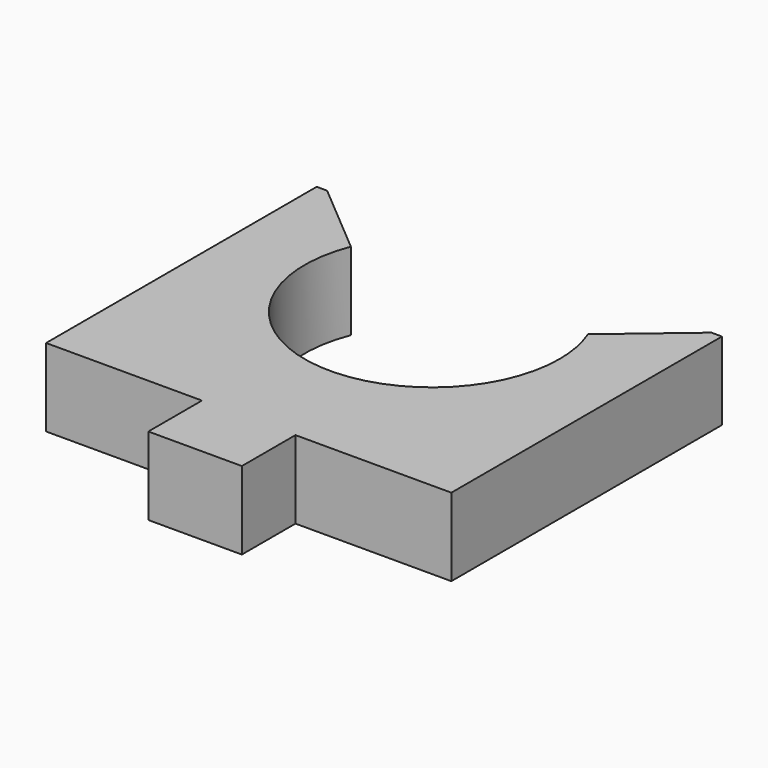
from build123d import *

# Parameters (mm, degrees)
F0_W     = 26
F0_H     = 26
F1_DEPTH = 5
F3_DEPTH = 25
F4_W     = 10
F4_H     = 4.3
F5_DEPTH = 25


with BuildPart() as f1:
    # F0 (on Top) → F1 (new body)
    with BuildSketch(Plane.XY):
        Rectangle(F0_W, F0_H)
    extrude(amount=F1_DEPTH)

    # F2 (on face) → F3 (cut)
    with BuildSketch(Plane.XY.offset(5)):
        with BuildLine():
            ThreePointArc((-7.604645, 9), (-1.526868, -2.031146), (8.175, 6))
            ThreePointArc((8.175, 6), (8.031146, 7.526868), (7.604645, 9))
            ThreePointArc((7.604645, 9), (6.242686, 11.27821), (4.222632, 13))
            Line((4.222632, 13), (-4.222632, 13))
            ThreePointArc((-4.222632, 13), (-6.242686, 11.27821), (-7.604645, 9))
        make_face()
        with BuildLine():
            ThreePointArc((4.222632, 13), (6.242686, 11.27821), (7.604645, 9))
            Line((7.604645, 9), (12.328957, 13))
            Line((12.328957, 13), (4.222632, 13))
        make_face()
        with BuildLine():
            Line((-12.328957, 13), (-7.604645, 9))
            ThreePointArc((-7.604645, 9), (-6.242686, 11.27821), (-4.222632, 13))
            Line((-4.222632, 13), (-12.328957, 13))
        make_face()
        with BuildLine():
            Line((-4.222632, 13), (4.222632, 13))
            ThreePointArc((4.222632, 13), (0, 14.175), (-4.222632, 13))
        make_face()
    extrude(amount=-F3_DEPTH, mode=Mode.SUBTRACT)

    # F4 (on face) → F5 (cut)
    with BuildSketch(Plane.XY.offset(5)):
        with Locations((-8, -10.85)):
            Rectangle(F4_W, F4_H)
        with Locations((8, -10.85)):
            Rectangle(F4_W, F4_H)
    extrude(amount=-F5_DEPTH, mode=Mode.SUBTRACT)


solid = f1.part
